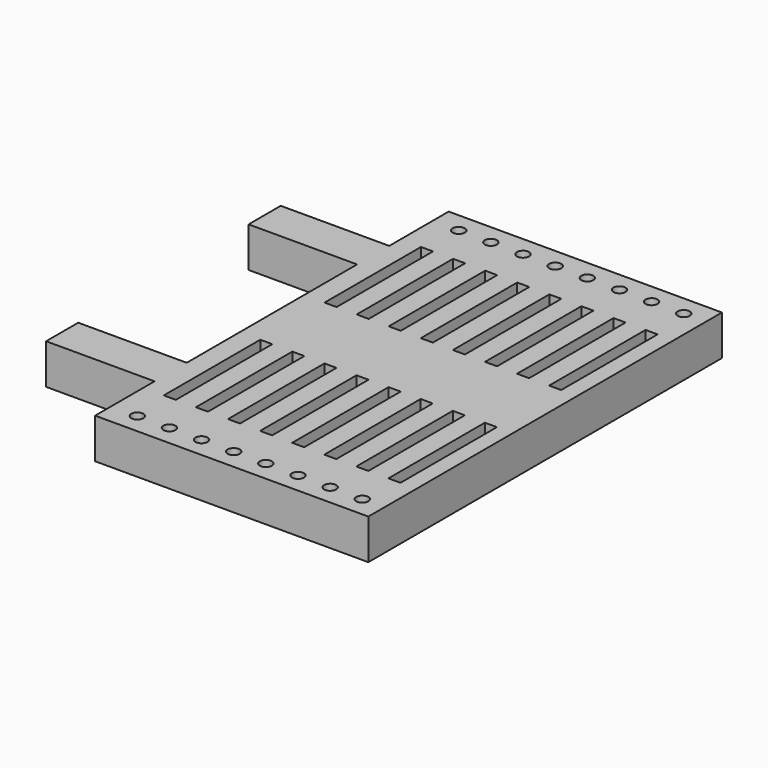
from build123d import *

# Parameters (mm, degrees)
F0_W     = 6.858
F0_H     = 2.54
F0_R     = 0.381
F0_W_2   = 0.762
F0_H_2   = 7.62
F1_DEPTH = 2.54


with BuildPart() as f1:
    # F0 (on Top) → F1 (new body)
    with BuildSketch(Plane.XY):
        with Locations((-12.065, 8.001)):
            Rectangle(F0_W, F0_H)
        with Locations((-12.065, -8.001)):
            Rectangle(F0_W, F0_H)
        Polygon((8.636, -13.97), (8.636, 13.97), (-8.636, 13.97), (-8.636, 9.271), (-8.636, 6.731), (-8.636, -6.731), (-8.636, -9.271), (-8.636, -13.97), align=None)
        with Locations((-6.98514, -12.7)):
            Circle(F0_R, mode=Mode.SUBTRACT)
        with Locations((-4.95312, -12.7)):
            Circle(F0_R, mode=Mode.SUBTRACT)
        with Locations((-6.95875, -6.35)):
            Rectangle(F0_W_2, F0_H_2, mode=Mode.SUBTRACT)
        with Locations((-4.9305, -6.35)):
            Rectangle(F0_W_2, F0_H_2, mode=Mode.SUBTRACT)
        with Locations((-2.9211, -12.7)):
            Circle(F0_R, mode=Mode.SUBTRACT)
        with Locations((-0.88908, -12.7)):
            Circle(F0_R, mode=Mode.SUBTRACT)
        with Locations((1.14294, -12.7)):
            Circle(F0_R, mode=Mode.SUBTRACT)
        with Locations((3.17496, -12.7)):
            Circle(F0_R, mode=Mode.SUBTRACT)
        with Locations((5.20698, -12.7)):
            Circle(F0_R, mode=Mode.SUBTRACT)
        with Locations((7.239, -12.7)):
            Circle(F0_R, mode=Mode.SUBTRACT)
        with Locations((-2.90225, -6.35)):
            Rectangle(F0_W_2, F0_H_2, mode=Mode.SUBTRACT)
        with Locations((-0.874, -6.35)):
            Rectangle(F0_W_2, F0_H_2, mode=Mode.SUBTRACT)
        with Locations((1.15425, -6.35)):
            Rectangle(F0_W_2, F0_H_2, mode=Mode.SUBTRACT)
        with Locations((3.1825, -6.35)):
            Rectangle(F0_W_2, F0_H_2, mode=Mode.SUBTRACT)
        with Locations((5.21075, -6.35)):
            Rectangle(F0_W_2, F0_H_2, mode=Mode.SUBTRACT)
        with Locations((7.239, -6.35)):
            Rectangle(F0_W_2, F0_H_2, mode=Mode.SUBTRACT)
        with Locations((-6.95875, 6.35)):
            Rectangle(F0_W_2, F0_H_2, mode=Mode.SUBTRACT)
        with Locations((-4.9305, 6.35)):
            Rectangle(F0_W_2, F0_H_2, mode=Mode.SUBTRACT)
        with Locations((-6.98514, 12.7)):
            Circle(F0_R, mode=Mode.SUBTRACT)
        with Locations((-4.95312, 12.7)):
            Circle(F0_R, mode=Mode.SUBTRACT)
        with Locations((-2.90225, 6.35)):
            Rectangle(F0_W_2, F0_H_2, mode=Mode.SUBTRACT)
        with Locations((-0.874, 6.35)):
            Rectangle(F0_W_2, F0_H_2, mode=Mode.SUBTRACT)
        with Locations((1.15425, 6.35)):
            Rectangle(F0_W_2, F0_H_2, mode=Mode.SUBTRACT)
        with Locations((3.1825, 6.35)):
            Rectangle(F0_W_2, F0_H_2, mode=Mode.SUBTRACT)
        with Locations((5.21075, 6.35)):
            Rectangle(F0_W_2, F0_H_2, mode=Mode.SUBTRACT)
        with Locations((7.239, 6.35)):
            Rectangle(F0_W_2, F0_H_2, mode=Mode.SUBTRACT)
        with Locations((-2.9211, 12.7)):
            Circle(F0_R, mode=Mode.SUBTRACT)
        with Locations((-0.88908, 12.7)):
            Circle(F0_R, mode=Mode.SUBTRACT)
        with Locations((1.14294, 12.7)):
            Circle(F0_R, mode=Mode.SUBTRACT)
        with Locations((3.17496, 12.7)):
            Circle(F0_R, mode=Mode.SUBTRACT)
        with Locations((5.20698, 12.7)):
            Circle(F0_R, mode=Mode.SUBTRACT)
        with Locations((7.239, 12.7)):
            Circle(F0_R, mode=Mode.SUBTRACT)
    extrude(amount=-F1_DEPTH)


solid = f1.part
